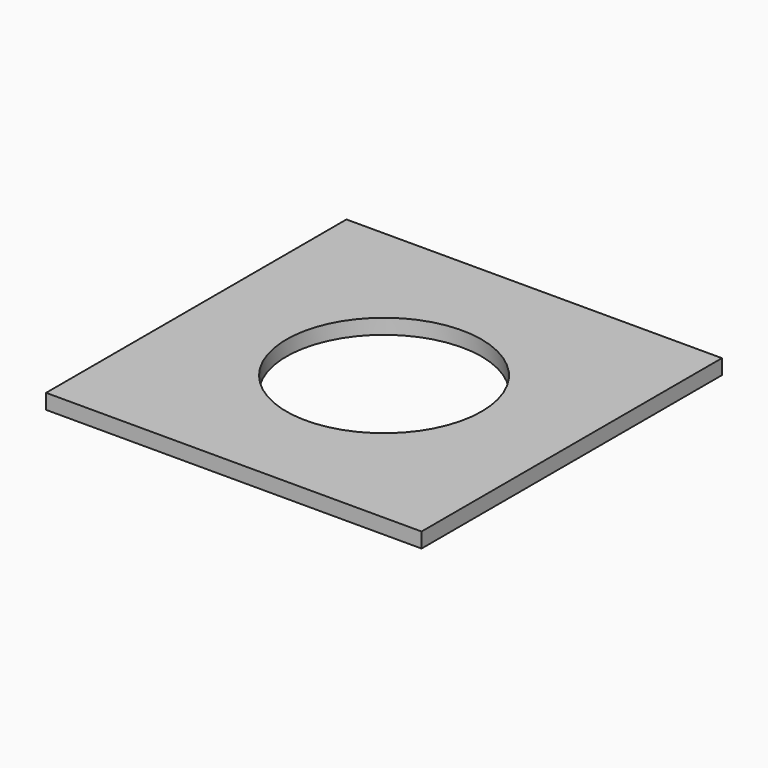
from build123d import *

# Parameters (mm, degrees)
SKETCH001_R   = 26
EXTRUDE_DEPTH = 10
BOX_W         = 100
BOX_H         = 100
BOX_DEPTH     = 4


with BuildPart() as glass_holder_hole:
    # Sketch001 (on Face5 of Box) → Extrude (new body)
    with BuildSketch(Plane(origin=(-50, -50, 0), x_dir=(1, 0, 0), z_dir=(0, 0, -1))):
        with Locations((50, -50)):
            Circle(SKETCH001_R)
    extrude(amount=-EXTRUDE_DEPTH)


with BuildPart() as glass_holder:
    # Box → Box (new body)
    with BuildSketch(Plane(origin=(-50, -50, 0), x_dir=(1, 0, 0), z_dir=(0, 0, 1))):
        with Locations((50, 50)):
            Rectangle(BOX_W, BOX_H)
    extrude(amount=BOX_DEPTH)

    # Cut: cut Glass Holder Hole
    add(glass_holder_hole.part, mode=Mode.SUBTRACT)


solid = glass_holder.part
